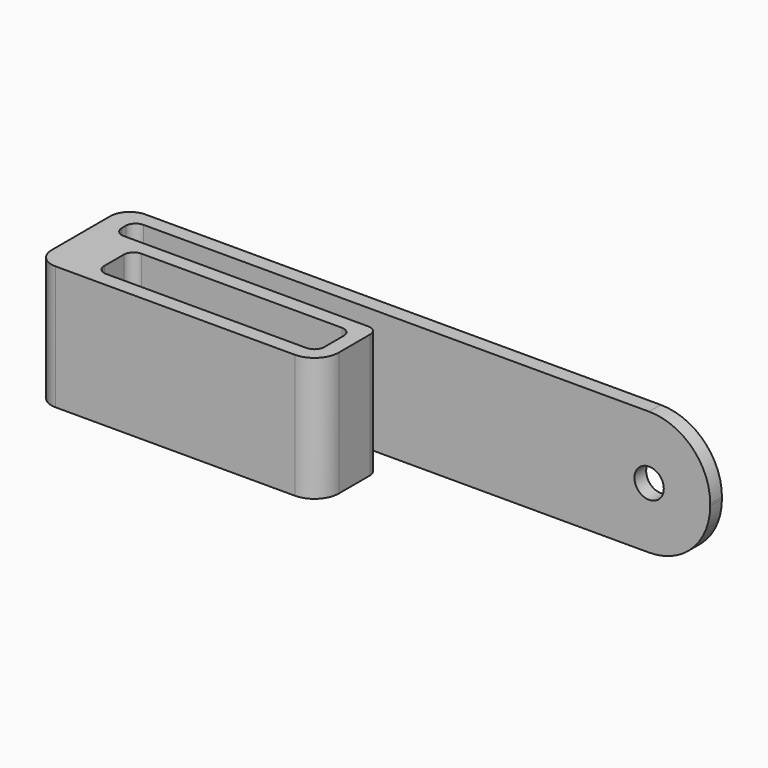
from build123d import *

# Parameters (mm, degrees)
F1_DEPTH = 25.4
F3_DEPTH = 25.401
F5_DEPTH = 25.401
F6_R     = 2
F7_R     = 12.5
F8_R     = 3
F9_DEPTH = 3.001


with BuildPart() as f1:
    # F0 (on Top) → F1 (new body)
    with BuildSketch(Plane.XY):
        with BuildLine():
            Line((0, -23), (0, 0))
            Line((0, 0), (-118, 0))
            ThreePointArc((-118, 0), (-120.828427, -1.171573), (-122, -4))
            Line((-122, -4), (-122, -19))
            ThreePointArc((-122, -19), (-120.828427, -21.828427), (-118, -23))
            Line((-118, -23), (0, -23))
        make_face()
    extrude(amount=F1_DEPTH)

    # F2 (on face) → F3 (cut, through all)
    with BuildSketch(Plane.XY.offset(25.4)):
        with BuildLine():
            Line((-69, -11), (-110, -11))
            ThreePointArc((-110, -11), (-111.414214, -11.585786), (-112, -13))
            Line((-112, -13), (-112, -18))
            ThreePointArc((-112, -18), (-111.414214, -19.414214), (-110, -20))
            Line((-110, -20), (-69, -20))
            ThreePointArc((-69, -20), (-67.585786, -19.414214), (-67, -18))
            Line((-67, -18), (-67, -13))
            ThreePointArc((-67, -13), (-67.585786, -11.585786), (-69, -11))
        make_face()
    extrude(amount=-F3_DEPTH, mode=Mode.SUBTRACT)

    # F4 (on face) → F5 (cut, through all)
    with BuildSketch(Plane.XY.offset(25.4)):
        with BuildLine():
            Line((-118, -8), (-64, -8))
            Line((-64, -8), (-64, -18))
            ThreePointArc((-64, -18), (-65.464466, -21.535534), (-69, -23))
            Line((-69, -23), (0, -23))
            Line((0, -23), (0, -3))
            Line((0, -3), (-118, -3))
            Line((-118, -3), (-118, -8))
        make_face()
    extrude(amount=-F5_DEPTH, mode=Mode.SUBTRACT)

    # F6
    f6_edges = [f1.edges().sort_by_distance(p)[0] for p in [
        (-118, -3, 12.7),
        (-118, -8, 12.7),
        (-64, -8, 12.7),
    ]]
    fillet(f6_edges, radius=F6_R)

    # F7
    f7_edges = [f1.edges().sort_by_distance(p)[0] for p in [
        (0, -1.5, 25.4),
        (0, -1.5, 0),
    ]]
    fillet(f7_edges, radius=F7_R)

    # F8 (on face) → F9 (cut, through all)
    with BuildSketch(Plane.XZ.offset(3)):
        with Locations((-12.5, 12.5)):
            Circle(F8_R)
    extrude(amount=-F9_DEPTH, mode=Mode.SUBTRACT)


solid = f1.part
